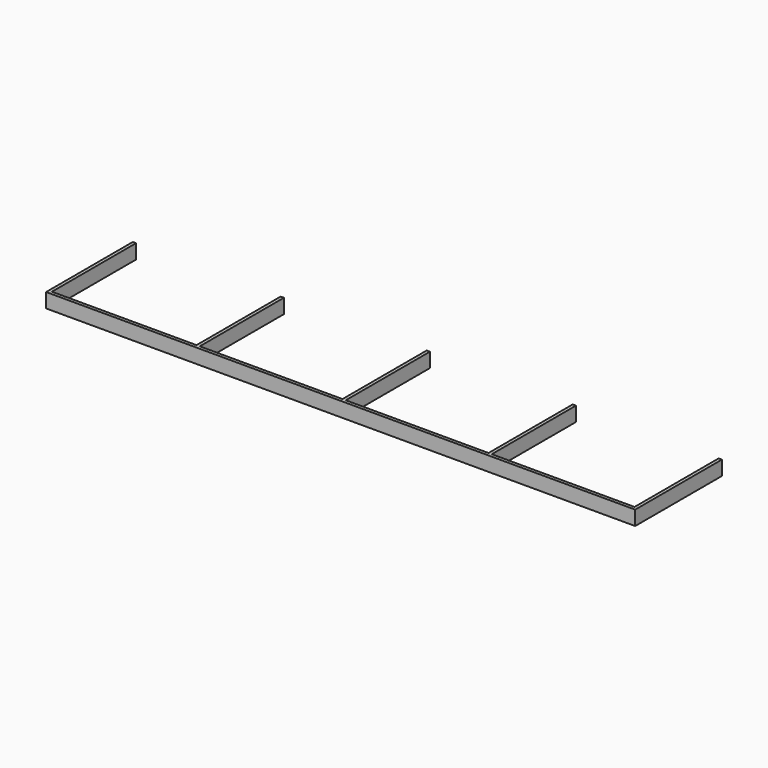
from build123d import *

# Parameters (mm, degrees)
F1_DEPTH = 80


with BuildPart() as f1:
    # F0 (on Top) → F1 (new body)
    with BuildSketch(Plane.XY):
        Polygon((-1626.894325, -75.671965), (-1626.894325, -675.671965), (1633.105675, -675.671965), (1633.105675, -75.671965), (1615.105675, -75.671965), (1615.105675, -657.671965), (825.105675, -657.671965), (825.105675, -75.671965), (807.105675, -75.671965), (807.105675, -657.671965), (17.105675, -657.671965), (17.105675, -75.671965), (-0.894325, -75.671965), (-0.894325, -657.671965), (-790.894325, -657.671965), (-790.894325, -75.671965), (-808.894325, -75.671965), (-808.894325, -657.671965), (-1608.894325, -657.671965), (-1608.894325, -75.671965), align=None)
    extrude(amount=F1_DEPTH)


solid = f1.part
